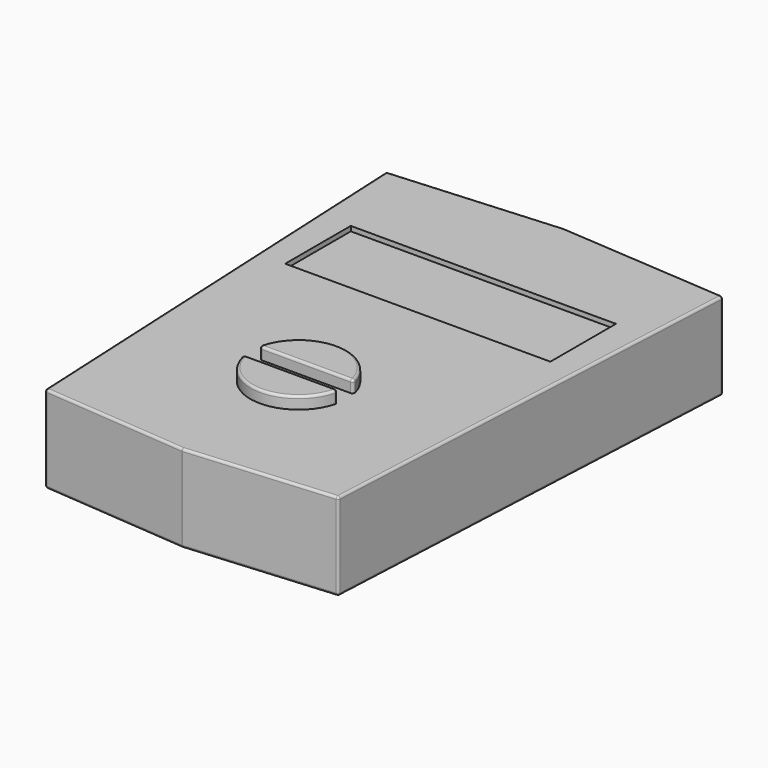
from build123d import *

# Parameters (mm, degrees)
F1_DEPTH  = 18.1
F3_DEPTH  = 2.5
F4_W      = 55
F4_H      = 17
F5_DEPTH  = 1
F6_R      = 0.5
F7_W      = 16.7
F7_H      = 18.3
F8_DEPTH  = 5.5
F9_R      = 0.5
F10_W     = 6
F10_H     = 3
F11_DEPTH = 10
F12_R     = 1.5
F13_DEPTH = 5


with BuildPart() as f1:
    # F0 (on Top) → F1 (new body)
    with BuildSketch(Plane.XY):
        Polygon((69.9801715439, -2.5), (35.05, 0), (0.1198284561, -2.5), (4.6301715439, -96.6), (35.05, -99.1), (65.4698284561, -96.6), align=None)
    extrude(amount=F1_DEPTH)

    # F2 (on face) → F3 (join)
    with BuildSketch(Plane.XY.offset(18.1)):
        with BuildLine():
            Line((25.1822125728, -66.8218548894), (44.778130515, -66.8218548894))
            ThreePointArc((44.778130515, -66.8218548894), (34.9801715439, -58.8218548894), (25.1822125728, -66.8218548894))
        make_face()
        with BuildLine():
            ThreePointArc((25.1822125728, -70.8218548894), (34.9801715439, -78.8218548894), (44.778130515, -70.8218548894))
            Line((44.778130515, -70.8218548894), (25.1822125728, -70.8218548894))
        make_face()
    extrude(amount=F3_DEPTH)

    # F4 (on face) → F5 (cut)
    with BuildSketch(Plane.XY.offset(18.1)):
        with Locations((35.05, -29.5)):
            Rectangle(F4_W, F4_H)
    extrude(amount=-F5_DEPTH, mode=Mode.SUBTRACT)

    # F6
    f6_edges = [f1.edges().sort_by_distance(p)[0] for p in [
        (34.980172, -66.821855, 20.6),
        (34.980172, -58.821855, 20.6),
        (34.980172, -78.821855, 20.6),
        (34.980172, -70.821855, 20.6),
        (25.182213, -70.821855, 19.35),
        (44.778131, -66.821855, 19.35),
        (25.182213, -66.821855, 19.35),
        (44.778131, -70.821855, 19.35),
        (65.469828, -96.6, 9.05),
        (69.980172, -2.5, 9.05),
        (67.725, -49.55, 0),
        (67.725, -49.55, 18.1),
        (35.05, -99.1, 9.05),
        (50.259914, -97.85, 0),
        (50.259914, -97.85, 18.1),
        (4.630172, -96.6, 9.05),
        (19.840086, -97.85, 0),
        (19.840086, -97.85, 18.1),
        (0.119828, -2.5, 9.05),
        (2.375, -49.55, 0),
        (2.375, -49.55, 18.1),
        (35.05, 0, 9.05),
        (17.584914, -1.25, 0),
        (17.584914, -1.25, 18.1),
        (52.515086, -1.25, 0),
        (52.515086, -1.25, 18.1),
    ]]
    fillet(f6_edges, radius=F6_R)

    # F7 (on face) → F8 (join)
    with BuildSketch(Plane(origin=(0, 0, 0), x_dir=(1, 0, 0), z_dir=(0, 0, -1))):
        with Locations((35.0856943769, 28.15)):
            Rectangle(F7_W, F7_H)
    extrude(amount=F8_DEPTH)

    # F9
    f9_edges = [f1.edges().sort_by_distance(p)[0] for p in [
        (35.085694, -37.3, -5.5),
        (26.735694, -28.15, -5.5),
        (35.085694, -19, -5.5),
        (43.435694, -28.15, -5.5),
        (43.435694, -19, -2.75),
        (26.735694, -19, -2.75),
        (26.735694, -37.3, -2.75),
        (43.435694, -37.3, -2.75),
    ]]
    fillet(f9_edges, radius=F9_R)

    # F10 (on face) → F11 (cut)
    with BuildSketch(Plane(origin=(0, 0, -5.5), x_dir=(1, 0, 0), z_dir=(0, 0, -1))):
        Polygon((38.0856943769, 26), (41.4356943769, 26), (41.4356943769, 33), (28.7356943769, 33), (28.7356943769, 26), (32.0856943769, 26), align=None)
        with Locations((35.0856943769, 24.5)):
            Rectangle(F10_W, F10_H)
    extrude(amount=-F11_DEPTH, mode=Mode.SUBTRACT)

    # F12 (on face) → F13 (cut)
    with BuildSketch(Plane(origin=(0, 0, 0), x_dir=(1, 0, 0), z_dir=(0, 0, -1))):
        with Locations((4.5356943769, 7)):
            Circle(F12_R)
        with Locations((60.4856943769, 93.6)):
            Circle(F12_R)
    extrude(amount=-F13_DEPTH, mode=Mode.SUBTRACT)


solid = f1.part
